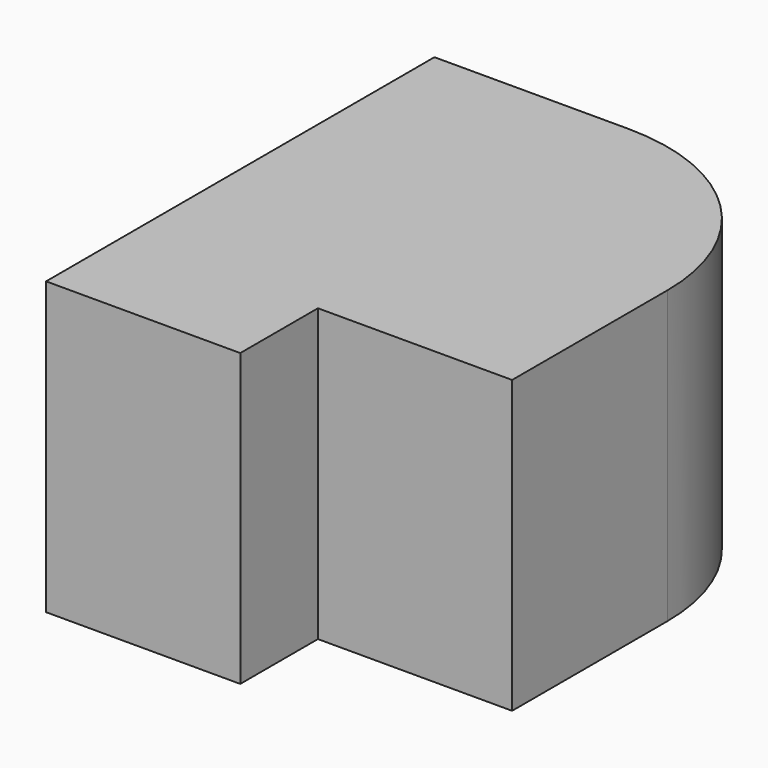
from build123d import *

# Parameters (mm, degrees)
F0_W     = 25.4
F0_H     = 12.7
F1_DEPTH = 38.1


with BuildPart() as f1:
    # F0 (on Top) → F1 (new body)
    with BuildSketch(Plane.XY):
        with BuildLine():
            Line((0, 50.8), (0, 0))
            Line((0, 0), (25.4, 0))
            Line((25.4, 0), (50.8, 0))
            Line((50.8, 0), (50.8, 25.4))
            ThreePointArc((50.8, 25.4), (43.360512, 43.360512), (25.4, 50.8))
            Line((25.4, 50.8), (0, 50.8))
        make_face()
        with Locations((12.7, -6.35)):
            Rectangle(F0_W, F0_H)
    extrude(amount=F1_DEPTH)


solid = f1.part
